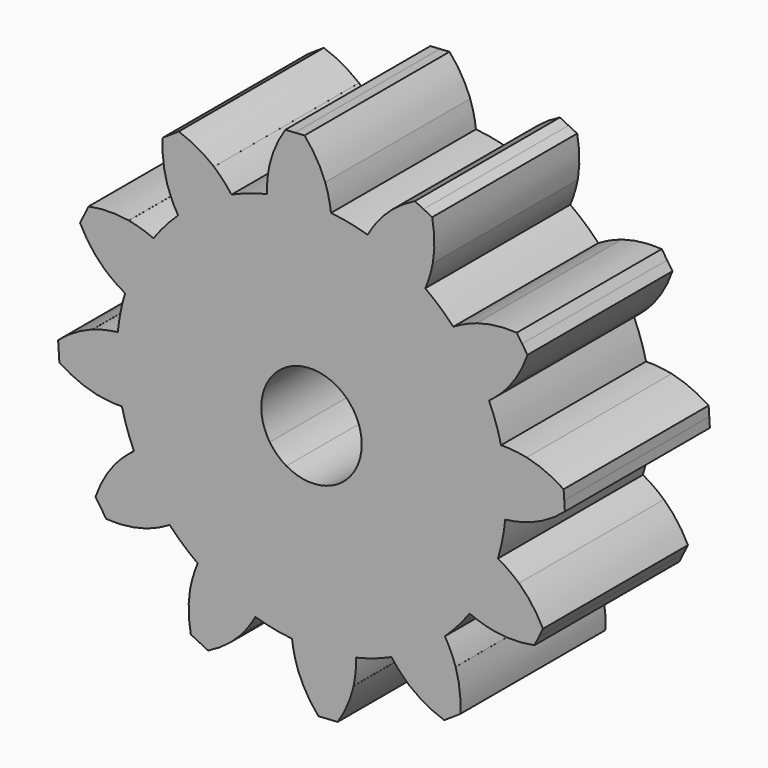
from build123d import *

# Parameters (mm, degrees)
F1_DEPTH = 25
F2_COUNT = 12


with BuildPart() as f1:
    # F0 (on Front) → F1 (new body)
    with BuildSketch(Plane.XZ):
        with BuildLine():
            ThreePointArc((-16.6509747505, 33.7543450296), (-27.1725581608, -13.448613953), (16.3639183414, 7.6084102419))
            ThreePointArc((16.3639183414, 7.6084102419), (9.424696785, 25.625877473), (-7.8075695626, 34.3339724287))
            ThreePointArc((-7.8075695626, 34.3339724287), (-10.0288510811, 34.4648375612), (-12.2533424113, 34.4113998496))
            ThreePointArc((-12.2533424113, 34.4113998496), (-14.4657779308, 34.1740260113), (-16.6509747505, 33.7543450296))
        make_face()
        with BuildLine():
            ThreePointArc((11.4594258414, 7.6084102419), (-25.5055393688, -8.4164908122), (-11.9325732545, 29.5174082445))
            ThreePointArc((-11.9325732545, 29.5174082445), (4.5123760516, 23.6333112961), (11.4594258414, 7.6084102419))
        make_face(mode=Mode.SUBTRACT)
        with BuildLine():
            ThreePointArc((11.4594258414, 7.6084102419), (4.5123760516, 23.6333112961), (-11.9325732545, 29.5174082445))
            ThreePointArc((-11.9325732545, 29.5174082445), (-25.5055393688, -8.4164908122), (11.4594258414, 7.6084102419))
        make_face()
        with BuildLine():
            ThreePointArc((-3.5714667078, 7.6084102419), (-15.2305369296, 2.5540176401), (-10.9495058467, 14.51869799))
            ThreePointArc((-10.9495058467, 14.51869799), (-5.7626263876, 12.6628028438), (-3.5714667078, 7.6084102419))
        make_face(mode=Mode.SUBTRACT)
        with BuildLine():
            ThreePointArc((-16.3103613436, 37.2902214427), (-16.5785686452, 35.5317140681), (-16.6509747505, 33.7543450296))
            ThreePointArc((-16.6509747505, 33.7543450296), (-14.4657779308, 34.1740260113), (-12.2533424113, 34.4113998496))
            Line((-12.2533424113, 34.4113998496), (-12.5728145113, 39.2856021927))
            Line((-12.5728145113, 39.2856021927), (-12.7817342645, 42.4731016662))
            Line((-12.7817342645, 42.4731016662), (-14.1095504339, 42.3860719965))
            ThreePointArc((-14.1095504339, 42.3860719965), (-15.4479467452, 39.9403396391), (-16.3200243922, 37.2922474905))
            Line((-16.3200243922, 37.2922474905), (-16.3103613436, 37.2902214427))
        make_face()
        with BuildLine():
            ThreePointArc((-12.2533424113, 34.4113998496), (-10.0288510811, 34.4648375612), (-7.8075695626, 34.3339724287))
            ThreePointArc((-7.8075695626, 34.3339724287), (-8.1113494364, 36.0866849355), (-8.606793459, 37.7951399579))
            Line((-8.606793459, 37.7951399579), (-8.5974775314, 37.7984099535))
            ThreePointArc((-8.5974775314, 37.7984099535), (-9.807739818, 40.3100183321), (-11.4539180952, 42.5601313359))
            Line((-11.4539180952, 42.5601313359), (-12.7817342645, 42.4731016662))
            Line((-12.7817342645, 42.4731016662), (-12.5728145113, 39.2856021927))
            Line((-12.5728145113, 39.2856021927), (-12.2533424113, 34.4113998496))
        make_face()
    extrude(amount=F1_DEPTH)

    # F2: F1 ×12 about axis
    f2_axis = Axis((-10.4965816586, 0, 7.6084102419), (0, 1, 0))


with BuildPart() as f1_1:
    add(f1.part)
    for i in range(1, F2_COUNT):
        add(f1.part.rotate(f2_axis, i * 360 / F2_COUNT))


solid = f1_1.part
